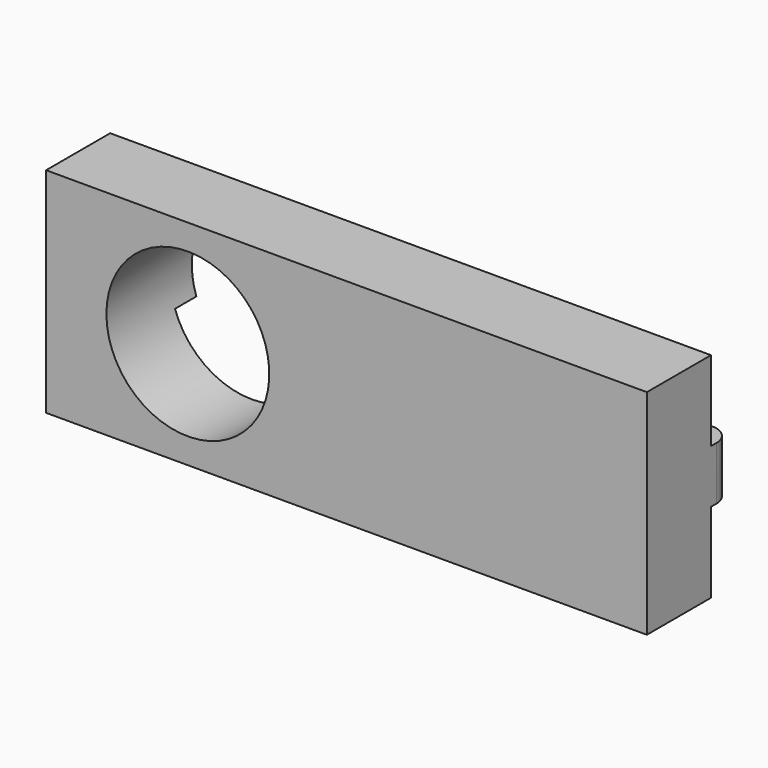
from build123d import *

# Parameters (mm, degrees)
F0_W     = 22.5
F0_H     = 8
F2_DEPTH = 3
F1_W     = 22.5
F1_H     = 2
F3_DEPTH = 1
F5_D     = 6.1
F6_R     = 0.748406
F7_R     = 0.748


with BuildPart() as f2:
    # F0 (on Front) → F2 (new body)
    with BuildSketch(Plane.XZ):
        Rectangle(F0_W, F0_H)
    extrude(amount=F2_DEPTH)

    # F1 (on Front) → F3 (join)
    with BuildSketch(Plane.XZ):
        Rectangle(F1_W, F1_H)
    extrude(amount=-F3_DEPTH)

    # F5 (through all)
    with Locations(Plane.XZ.offset(3)):
        with Locations((-5.941246, 0)):
            Hole(F5_D / 2)

    # F6
    f6_edges = [f2.edges().sort_by_distance(p)[0] for p in [
        (-11.25, 1, 0),
    ]]
    fillet(f6_edges, radius=F6_R)

    # F7
    f7_edges = [f2.edges().sort_by_distance(p)[0] for p in [
        (11.25, 1, 0),
    ]]
    fillet(f7_edges, radius=F7_R)


solid = f2.part
